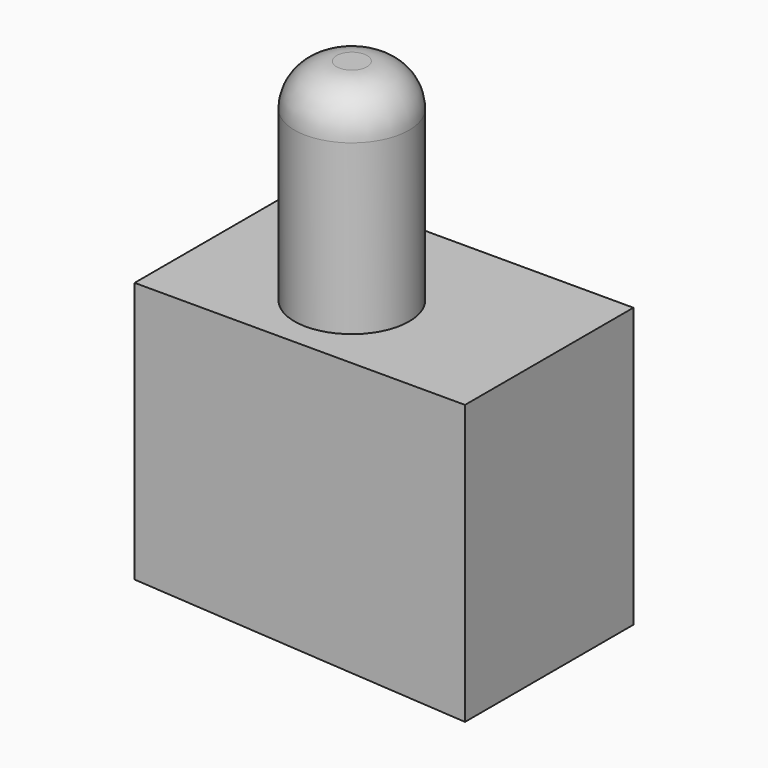
from build123d import *

# Parameters (mm, degrees)
F1_DEPTH = 25.4
F2_R     = 6.91991
F3_DEPTH = 25.4
F4_R     = 5.08


with BuildPart() as f1:
    # F0 (on Front) → F1 (new body)
    with BuildSketch(Plane.XZ):
        Polygon((-74.833319, 51.980667), (-74.833319, 20.457085), (-34.958635, 18.300878), (-34.958635, 51.980667), align=None)
    extrude(amount=F1_DEPTH)

    # F2 (on face) → F3 (join)
    with BuildSketch(Plane.XY.offset(51.980667)):
        with Locations((-56.627482, -15.38695)):
            Circle(F2_R)
    extrude(amount=F3_DEPTH)

    # F4
    f4_edges = [f1.edges().sort_by_distance(p)[0] for p in [
        (-63.547392, -15.38695, 77.380667),
    ]]
    fillet(f4_edges, radius=F4_R)


solid = f1.part
